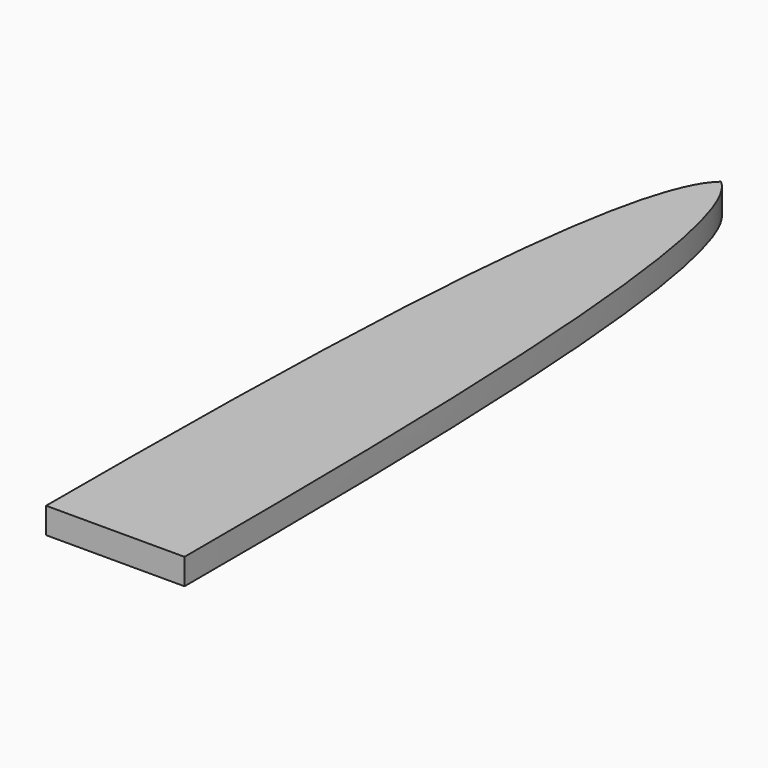
from build123d import *

# Parameters (mm, degrees)
F1_DEPTH = 3


with BuildPart() as f1:
    # F0 (on Top) → F1 (new body)
    with BuildSketch(Plane.XY):
        with BuildLine():
            Line((-8, 0), (0, 0))
            Line((0, 0), (8, 0))
            add(Edge.make_bspline(
                [(0, 87.5), (7.660444, 81.072124), (8, 30), (8, 0)],
                knots=[0, 0, 0, 0, 87.864953, 87.864953, 87.864953, 87.864953], degree=3))
            add(Edge.make_bspline(
                [(0, 87.5), (-7.660444, 81.072124), (-8, 30), (-8, 0)],
                knots=[0, 0, 0, 0, 87.864953, 87.864953, 87.864953, 87.864953], degree=3))
        make_face()
    extrude(amount=F1_DEPTH)


solid = f1.part
